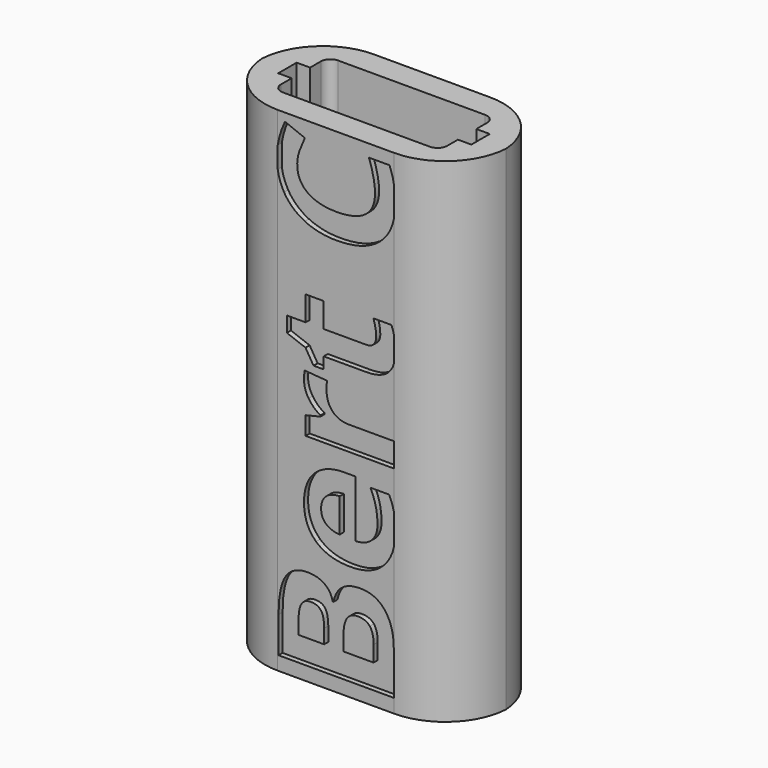
from build123d import *

# Parameters (mm, degrees)
F1_DEPTH = 36.6
F0_W     = 0.55
F0_H     = 0.4
F2_DEPTH = 2
F4_DEPTH = 0.4


with BuildPart() as f1:
    # F0 (on Top) → F1 (new body)
    with BuildSketch(Plane.XY):
        with BuildLine():
            Line((-11.4141522914, 14.7262677297), (-20.5141522914, 14.7262677297))
            ThreePointArc((-20.5141522914, 14.7262677297), (-23.9419795916, 13.3663226743), (-25.5051441768, 10.0262677297))
            ThreePointArc((-25.5051441768, 10.0262677297), (-23.9419795916, 6.6862127851), (-20.5141522914, 5.3262677297))
            Line((-20.5141522914, 5.3262677297), (-11.4141522914, 5.3262677297))
            ThreePointArc((-11.4141522914, 5.3262677297), (-7.9863249912, 6.6862127851), (-6.423160406, 10.0262677297))
            ThreePointArc((-6.423160406, 10.0262677297), (-7.9863249912, 13.3663226743), (-11.4141522914, 14.7262677297))
        make_face()
        with BuildLine():
            Line((-23.5141522914, 10.9262677297), (-22.4641522914, 10.9262677297))
            Line((-22.4641522914, 10.9262677297), (-22.4641522914, 11.9762677297))
            ThreePointArc((-22.4641522914, 11.9762677297), (-22.2444823773, 12.5065978156), (-21.7141522914, 12.7262677297))
            Line((-21.7141522914, 12.7262677297), (-10.2141522914, 12.7262677297))
            ThreePointArc((-10.2141522914, 12.7262677297), (-9.6838222055, 12.5065978156), (-9.4641522914, 11.9762677297))
            Line((-9.4641522914, 11.9762677297), (-9.4641522914, 10.9262677297))
            Line((-9.4641522914, 10.9262677297), (-8.4141522914, 10.9262677297))
            Line((-8.4141522914, 10.9262677297), (-8.4141522914, 10.0262677297))
            Line((-8.4141522914, 10.0262677297), (-8.4141522914, 9.1262677297))
            Line((-8.4141522914, 9.1262677297), (-9.4641522914, 9.1262677297))
            Line((-9.4641522914, 9.1262677297), (-9.4641522914, 8.0762677297))
            ThreePointArc((-9.4641522914, 8.0762677297), (-9.6838222055, 7.5459376438), (-10.2141522914, 7.3262677297))
            Line((-10.2141522914, 7.3262677297), (-21.7141522914, 7.3262677297))
            ThreePointArc((-21.7141522914, 7.3262677297), (-22.2444823773, 7.5459376438), (-22.4641522914, 8.0762677297))
            Line((-22.4641522914, 8.0762677297), (-22.4641522914, 9.1262677297))
            Line((-22.4641522914, 9.1262677297), (-23.5141522914, 9.1262677297))
            Line((-23.5141522914, 9.1262677297), (-23.5141522914, 10.0262677297))
            Line((-23.5141522914, 10.0262677297), (-23.5141522914, 10.9262677297))
        make_face(mode=Mode.SUBTRACT)
    extrude(amount=F1_DEPTH)

    # F0 (on Top) → F2 (join)
    with BuildSketch(Plane.XY):
        with BuildLine():
            Line((-11.4141522914, 14.7262677297), (-20.5141522914, 14.7262677297))
            ThreePointArc((-20.5141522914, 14.7262677297), (-23.9419795916, 13.3663226743), (-25.5051441768, 10.0262677297))
            ThreePointArc((-25.5051441768, 10.0262677297), (-23.9419795916, 6.6862127851), (-20.5141522914, 5.3262677297))
            Line((-20.5141522914, 5.3262677297), (-11.4141522914, 5.3262677297))
            ThreePointArc((-11.4141522914, 5.3262677297), (-7.9863249912, 6.6862127851), (-6.423160406, 10.0262677297))
            ThreePointArc((-6.423160406, 10.0262677297), (-7.9863249912, 13.3663226743), (-11.4141522914, 14.7262677297))
        make_face()
        with BuildLine():
            Line((-23.5141522914, 10.9262677297), (-22.4641522914, 10.9262677297))
            Line((-22.4641522914, 10.9262677297), (-22.4641522914, 11.9762677297))
            ThreePointArc((-22.4641522914, 11.9762677297), (-22.2444823773, 12.5065978156), (-21.7141522914, 12.7262677297))
            Line((-21.7141522914, 12.7262677297), (-10.2141522914, 12.7262677297))
            ThreePointArc((-10.2141522914, 12.7262677297), (-9.6838222055, 12.5065978156), (-9.4641522914, 11.9762677297))
            Line((-9.4641522914, 11.9762677297), (-9.4641522914, 10.9262677297))
            Line((-9.4641522914, 10.9262677297), (-8.4141522914, 10.9262677297))
            Line((-8.4141522914, 10.9262677297), (-8.4141522914, 10.0262677297))
            Line((-8.4141522914, 10.0262677297), (-8.4141522914, 9.1262677297))
            Line((-8.4141522914, 9.1262677297), (-9.4641522914, 9.1262677297))
            Line((-9.4641522914, 9.1262677297), (-9.4641522914, 8.0762677297))
            ThreePointArc((-9.4641522914, 8.0762677297), (-9.6838222055, 7.5459376438), (-10.2141522914, 7.3262677297))
            Line((-10.2141522914, 7.3262677297), (-21.7141522914, 7.3262677297))
            ThreePointArc((-21.7141522914, 7.3262677297), (-22.2444823773, 7.5459376438), (-22.4641522914, 8.0762677297))
            Line((-22.4641522914, 8.0762677297), (-22.4641522914, 9.1262677297))
            Line((-22.4641522914, 9.1262677297), (-23.5141522914, 9.1262677297))
            Line((-23.5141522914, 9.1262677297), (-23.5141522914, 10.0262677297))
            Line((-23.5141522914, 10.0262677297), (-23.5141522914, 10.9262677297))
        make_face(mode=Mode.SUBTRACT)
        Polygon((-23.0141522914, 10.4262677297), (-22.4641522914, 10.4262677297), (-22.4641522914, 10.9262677297), (-23.5141522914, 10.9262677297), (-23.5141522914, 10.0262677297), (-23.5141522914, 9.1262677297), (-22.4641522914, 9.1262677297), (-22.4641522914, 9.6262677297), (-23.0141522914, 9.6262677297), (-23.0141522914, 10.0262677297), align=None)
        Polygon((-9.4641522914, 10.9262677297), (-9.4641522914, 10.4262677297), (-8.9141522914, 10.4262677297), (-8.9141522914, 10.0262677297), (-8.9141522914, 9.6262677297), (-9.4641522914, 9.6262677297), (-9.4641522914, 9.1262677297), (-8.4141522914, 9.1262677297), (-8.4141522914, 10.0262677297), (-8.4141522914, 10.9262677297), align=None)
        with Locations((-9.1891522914, 10.2262677297)):
            Rectangle(F0_W, F0_H)
        with Locations((-9.1891522914, 9.8262677297)):
            Rectangle(F0_W, F0_H)
        with Locations((-22.7391522914, 9.8262677297)):
            Rectangle(F0_W, F0_H)
        with Locations((-22.7391522914, 10.2262677297)):
            Rectangle(F0_W, F0_H)
    extrude(amount=-F2_DEPTH)

    # F3 (on face) → F4 (cut)
    with BuildSketch(Plane.XZ.offset(-5.3262677297)):
        with BuildLine():
            add(Edge.make_bspline(
                [(-20.5141522914, 34.1754316406), (-20.3765211718, 35.0710144978), (-19.9456660149, 35.9729916487)],
                knots=[0.3194370949, 0.3194370949, 0.3194370949, 1, 1, 1], degree=2))
            Line((-20.5141522914, 34.1754316406), (-20.5141522914, 32.5014638676))
            add(Edge.make_bspline(
                [(-20.015680249, 31.0897453487), (-20.3880312966, 31.7235898641), (-20.5141522914, 32.5014638676)],
                knots=[0, 0, 0, 0.6612847054, 0.6612847054, 0.6612847054], degree=2))
            add(Edge.make_bspline(
                [(-18.3954917048, 29.6194464325), (-19.4526080282, 30.1312406226), (-20.015680249, 31.0897453487)],
                knots=[0, 0, 0, 1, 1, 1], degree=2))
            add(Edge.make_bspline(
                [(-15.9321740034, 29.1076522423), (-17.3383753814, 29.1076522423), (-18.3954917048, 29.6194464325)],
                knots=[0, 0, 0, 1, 1, 1], degree=2))
            add(Edge.make_bspline(
                [(-12.5083793439, 30.1489907101), (-13.7015796717, 29.1076522423), (-15.9321740034, 29.1076522423)],
                knots=[0, 0, 0, 1, 1, 1], degree=2))
            add(Edge.make_bspline(
                [(-11.4141522914, 32.1007460204), (-11.6588284661, 30.8904169308), (-12.5083793439, 30.1489907101)],
                knots=[0.2880064998, 0.2880064998, 0.2880064998, 1, 1, 1], degree=2))
            Line((-11.4141522914, 32.1007460204), (-11.4141522914, 34.3660595958))
            add(Edge.make_bspline(
                [(-11.7786535237, 35.6337677539), (-11.5293555555, 35.0375743151), (-11.4141522914, 34.3660595958)],
                knots=[0, 0, 0, 0.5378892779, 0.5378892779, 0.5378892779], degree=2))
            Line((-11.7786535237, 35.6337677539), (-13.3801058644, 35.6337677539))
            add(Edge.make_bspline(
                [(-12.9067701972, 33.336117536), (-12.9067701972, 34.2847611023), (-13.3801058644, 35.6337677539)],
                knots=[0, 0, 0, 1, 1, 1], degree=2))
            add(Edge.make_bspline(
                [(-15.9203406117, 31.0739674931), (-12.9067701972, 31.0739674931), (-12.9067701972, 33.336117536)],
                knots=[0, 0, 0, 1, 1, 1], degree=2))
            add(Edge.make_bspline(
                [(-18.1785461906, 31.6656370771), (-17.3679588606, 31.0739674931), (-15.9203406117, 31.0739674931)],
                knots=[0, 0, 0, 1, 1, 1], degree=2))
            add(Edge.make_bspline(
                [(-18.9891335207, 33.336117536), (-18.9891335207, 32.2573066611), (-18.1785461906, 31.6656370771)],
                knots=[0, 0, 0, 1, 1, 1], degree=2))
            add(Edge.make_bspline(
                [(-18.8106465296, 34.3399835968), (-18.9891335207, 33.8291755227), (-18.9891335207, 33.336117536)],
                knots=[0, 0, 0, 1, 1, 1], degree=2))
            add(Edge.make_bspline(
                [(-18.3915472409, 35.3576552813), (-18.6321595384, 34.850791671), (-18.8106465296, 34.3399835968)],
                knots=[0, 0, 0, 1, 1, 1], degree=2))
            Line((-18.3915472409, 35.3576552813), (-19.9456660149, 35.9729916487))
        make_face()
        with BuildLine():
            Line((-11.4141522914, 22.1291245865), (-11.4141522914, 24.0078518221))
            add(Edge.make_bspline(
                [(-11.6307361276, 24.6878804498), (-11.4919040027, 24.3789789717), (-11.4141522914, 24.0078518221)],
                knots=[0, 0, 0, 0.4399587902, 0.4399587902, 0.4399587902], degree=2))
            Line((-11.6307361276, 24.6878804498), (-13.0290485778, 24.6878804498))
            add(Edge.make_bspline(
                [(-12.8140752957, 23.5045412818), (-12.8140752957, 23.9975992684), (-13.0290485778, 24.6878804498)],
                knots=[0, 0, 0, 1, 1, 1], degree=2))
            add(Edge.make_bspline(
                [(-13.0053817945, 22.9089272339), (-12.8140752957, 23.1337616758), (-12.8140752957, 23.5045412818)],
                knots=[0, 0, 0, 1, 1, 1], degree=2))
            add(Edge.make_bspline(
                [(-13.5970513785, 22.6840927919), (-13.1966882933, 22.6840927919), (-13.0053817945, 22.9089272339)],
                knots=[0, 0, 0, 1, 1, 1], degree=2))
            Line((-13.5970513785, 22.6840927919), (-16.9182899767, 22.6840927919))
            Line((-16.9182899767, 22.6840927919), (-16.9182899767, 24.6129356358))
            Line((-16.9182899767, 24.6129356358), (-18.3304080505, 24.6129356358))
            Line((-18.3304080505, 24.6129356358), (-18.3304080505, 22.6840927919))
            Line((-18.3304080505, 22.6840927919), (-19.7977486189, 22.6840927919))
            Line((-19.7977486189, 22.6840927919), (-19.7977486189, 21.4830035364))
            Line((-19.7977486189, 21.4830035364), (-18.3422414422, 20.9406397511))
            Line((-18.3422414422, 20.9406397511), (-17.7130994512, 19.9052179791))
            Line((-17.7130994512, 19.9052179791), (-16.9182899767, 19.9052179791))
            Line((-16.9182899767, 19.9052179791), (-16.9182899767, 20.8045557467))
            Line((-16.9182899767, 20.8045557467), (-13.5970513785, 20.8045557467))
            add(Edge.make_bspline(
                [(-11.8861401647, 21.3193082848), (-12.4571013133, 20.8045557467), (-13.5970513785, 20.8045557467)],
                knots=[0, 0, 0, 1, 1, 1], degree=2))
            add(Edge.make_bspline(
                [(-11.4141522914, 22.1291245865), (-11.5528971158, 21.6197450232), (-11.8861401647, 21.3193082848)],
                knots=[0.4163472423, 0.4163472423, 0.4163472423, 1, 1, 1], degree=2))
        make_face()
        with BuildLine():
            add(Edge.make_bspline(
                [(-18.4586031271, 18.7159621152), (-18.4586031271, 19.0985751129), (-18.4033806326, 19.351020802)],
                knots=[0, 0, 0, 1, 1, 1], degree=2))
            add(Edge.make_bspline(
                [(-18.1045874926, 17.5296645993), (-18.4586031271, 18.0749867325), (-18.4586031271, 18.7159621152)],
                knots=[0, 0, 0, 1, 1, 1], degree=2))
            add(Edge.make_bspline(
                [(-17.1707356659, 16.6628686587), (-17.7505718582, 16.984342466), (-18.1045874926, 17.5296645993)],
                knots=[0, 0, 0, 1, 1, 1], degree=2))
            Line((-17.1707356659, 16.6628686587), (-17.1707356659, 16.5721459892))
            Line((-17.1707356659, 16.5721459892), (-18.3304080505, 16.2940612847))
            Line((-18.3304080505, 16.2940612847), (-18.3304080505, 14.8701098192))
            Line((-18.3304080505, 14.8701098192), (-11.4394296288, 14.8701098192))
            Line((-11.4394296288, 14.8701098192), (-11.4394296288, 16.7496468644))
            Line((-11.4394296288, 16.7496468644), (-14.94605803, 16.7496468644))
            add(Edge.make_bspline(
                [(-16.240828303, 17.2525660108), (-15.7783399115, 16.7496468644), (-14.94605803, 16.7496468644)],
                knots=[0, 0, 0, 1, 1, 1], degree=2))
            add(Edge.make_bspline(
                [(-16.7033166945, 18.6548229249), (-16.7033166945, 17.7554851572), (-16.240828303, 17.2525660108)],
                knots=[0, 0, 0, 1, 1, 1], degree=2))
            add(Edge.make_bspline(
                [(-16.6421775042, 19.2090201019), (-16.7033166945, 18.9802411961), (-16.7033166945, 18.6548229249)],
                knots=[0, 0, 0, 1, 1, 1], degree=2))
            Line((-16.6421775042, 19.2090201019), (-18.4033806326, 19.351020802))
        make_face()
        with BuildLine():
            add(Edge.make_bspline(
                [(-11.4141522914, 9.5181631608), (-11.6167787293, 8.5611834051), (-12.2342391033, 7.9317978307)],
                knots=[0.328161039, 0.328161039, 0.328161039, 1, 1, 1], degree=2))
            Line((-11.4141522914, 9.5181631608), (-11.4141522914, 11.7936169729))
            add(Edge.make_bspline(
                [(-11.4354851649, 11.8999285075), (-11.4242986458, 11.8478470087), (-11.4141522914, 11.7936169729)],
                knots=[0, 0, 0, 0.0929837687, 0.0929837687, 0.0929837687], degree=2))
            add(Edge.make_bspline(
                [(-11.802320307, 12.953100367), (-11.5557913137, 12.4600423803), (-11.4354851649, 11.8999285075)],
                knots=[0, 0, 0, 1, 1, 1], degree=2))
            Line((-11.802320307, 12.953100367), (-13.2578274837, 12.953100367))
            add(Edge.make_bspline(
                [(-12.8446448908, 11.7954002143), (-12.9738260833, 12.3495973913), (-13.2578274837, 12.953100367)],
                knots=[0, 0, 0, 1, 1, 1], degree=2))
            add(Edge.make_bspline(
                [(-12.7154636983, 10.6179777421), (-12.7154636983, 11.2412030373), (-12.8446448908, 11.7954002143)],
                knots=[0, 0, 0, 1, 1, 1], degree=2))
            add(Edge.make_bspline(
                [(-13.1651325822, 9.3734993838), (-12.7154636983, 9.8172515718), (-12.7154636983, 10.6179777421)],
                knots=[0, 0, 0, 1, 1, 1], degree=2))
            add(Edge.make_bspline(
                [(-14.4155276364, 8.8981914846), (-13.614801466, 8.9297471958), (-13.1651325822, 9.3734993838)],
                knots=[0, 0, 0, 1, 1, 1], degree=2))
            Line((-14.4155276364, 8.8981914846), (-14.4155276364, 13.3416300605))
            Line((-14.4155276364, 13.3416300605), (-15.3286710277, 13.3416300605))
            add(Edge.make_bspline(
                [(-17.6273073615, 12.5280843825), (-16.796011596, 13.3416300605), (-15.3286710277, 13.3416300605)],
                knots=[0, 0, 0, 1, 1, 1], degree=2))
            add(Edge.make_bspline(
                [(-18.4586031271, 10.2550870639), (-18.4586031271, 11.7145387045), (-17.6273073615, 12.5280843825)],
                knots=[0, 0, 0, 1, 1, 1], degree=2))
            add(Edge.make_bspline(
                [(-17.5129179086, 7.8607974807), (-18.4586031271, 8.7266073052), (-18.4586031271, 10.2550870639)],
                knots=[0, 0, 0, 1, 1, 1], degree=2))
            add(Edge.make_bspline(
                [(-14.835613041, 6.9949876561), (-16.5672326902, 6.9949876561), (-17.5129179086, 7.8607974807)],
                knots=[0, 0, 0, 1, 1, 1], degree=2))
            add(Edge.make_bspline(
                [(-12.2342391033, 7.9317978307), (-13.1532991905, 6.9949876561), (-14.835613041, 6.9949876561)],
                knots=[0, 0, 0, 1, 1, 1], degree=2))
        make_face()
        with BuildLine():
            add(Edge.make_bspline(
                [(-17.1214298672, 10.2669204556), (-17.1214298672, 9.6693341758), (-16.7427613335, 9.3301102809)],
                knots=[0, 0, 0, 1, 1, 1], degree=2))
            add(Edge.make_bspline(
                [(-16.7427613335, 11.215564022), (-17.1214298672, 10.8645067355), (-17.1214298672, 10.2669204556)],
                knots=[0, 0, 0, 1, 1, 1], degree=2))
            add(Edge.make_bspline(
                [(-15.6678949225, 11.5804269321), (-16.3640927997, 11.5666213085), (-16.7427613335, 11.215564022)],
                knots=[0, 0, 0, 1, 1, 1], degree=2))
            Line((-15.6678949225, 11.5804269321), (-15.6678949225, 8.9415805874))
            add(Edge.make_bspline(
                [(-16.7427613335, 9.3301102809), (-16.3640927997, 8.9908863861), (-15.6678949225, 8.9415805874)],
                knots=[0, 0, 0, 1, 1, 1], degree=2))
        make_face(mode=Mode.SUBTRACT)
        with BuildLine():
            Line((-20.4505573932, 1.8849346822), (-20.4505573932, -0.919579146))
            Line((-20.4505573932, -0.919579146), (-11.4394296288, -0.919579146))
            Line((-11.4394296288, -0.919579146), (-11.4394296288, 2.4509652509))
            add(Edge.make_bspline(
                [(-12.1297108102, 4.8708938495), (-11.4394296288, 3.9794450096), (-11.4394296288, 2.4509652509)],
                knots=[0, 0, 0, 1, 1, 1], degree=2))
            add(Edge.make_bspline(
                [(-14.0526369582, 5.7623426894), (-12.8199919915, 5.7623426894), (-12.1297108102, 4.8708938495)],
                knots=[0, 0, 0, 1, 1, 1], degree=2))
            add(Edge.make_bspline(
                [(-15.4460188285, 5.3826880396), (-14.9223912467, 5.7623426894), (-14.0526369582, 5.7623426894)],
                knots=[0, 0, 0, 1, 1, 1], degree=2))
            add(Edge.make_bspline(
                [(-16.1609529092, 4.147084725), (-15.9696464104, 5.0030333899), (-15.4460188285, 5.3826880396)],
                knots=[0, 0, 0, 1, 1, 1], degree=2))
            Line((-16.1609529092, 4.147084725), (-16.2220920995, 4.147084725))
            add(Edge.make_bspline(
                [(-16.8443312787, 5.1548952498), (-16.3266203927, 4.776226716), (-16.2220920995, 4.147084725)],
                knots=[0, 0, 0, 1, 1, 1], degree=2))
            add(Edge.make_bspline(
                [(-18.1706572629, 5.5335637836), (-17.3620421647, 5.5335637836), (-16.8443312787, 5.1548952498)],
                knots=[0, 0, 0, 1, 1, 1], degree=2))
            add(Edge.make_bspline(
                [(-19.90523526, 4.667753959), (-19.3599131267, 5.5335637836), (-18.1706572629, 5.5335637836)],
                knots=[0, 0, 0, 1, 1, 1], degree=2))
            add(Edge.make_bspline(
                [(-20.4505573932, 1.8849346822), (-20.4505573932, 3.8019441344), (-19.90523526, 4.667753959)],
                knots=[0, 0, 0, 1, 1, 1], degree=2))
        make_face()
        with BuildLine():
            Line((-16.8808175697, 2.0999079644), (-16.8808175697, 0.9915136104))
            Line((-16.8808175697, 0.9915136104), (-18.8846052276, 0.9915136104))
            Line((-18.8846052276, 0.9915136104), (-18.8846052276, 1.9953796712))
            add(Edge.make_bspline(
                [(-18.6597707856, 3.1944966948), (-18.8846052276, 2.815828161), (-18.8846052276, 1.9953796712)],
                knots=[0, 0, 0, 1, 1, 1], degree=2))
            add(Edge.make_bspline(
                [(-17.9162393417, 3.5731652286), (-18.4349363437, 3.5731652286), (-18.6597707856, 3.1944966948)],
                knots=[0, 0, 0, 1, 1, 1], degree=2))
            add(Edge.make_bspline(
                [(-17.1214298672, 3.22506629), (-17.3620421647, 3.5731652286), (-17.9162393417, 3.5731652286)],
                knots=[0, 0, 0, 1, 1, 1], degree=2))
            add(Edge.make_bspline(
                [(-16.8808175697, 2.0999079644), (-16.8808175697, 2.8769673514), (-17.1214298672, 3.22506629)],
                knots=[0, 0, 0, 1, 1, 1], degree=2))
        make_face(mode=Mode.SUBTRACT)
        with BuildLine():
            Line((-13.0172151862, 0.9915136104), (-15.3661434347, 0.9915136104))
            Line((-15.3661434347, 0.9915136104), (-15.3661434347, 2.1748527784))
            add(Edge.make_bspline(
                [(-14.243943457, 3.7763051191), (-15.3661434347, 3.7763051191), (-15.3661434347, 2.1748527784)],
                knots=[0, 0, 0, 1, 1, 1], degree=2))
            add(Edge.make_bspline(
                [(-13.318966674, 3.4005949332), (-13.6207181619, 3.7763051191), (-14.243943457, 3.7763051191)],
                knots=[0, 0, 0, 1, 1, 1], degree=2))
            add(Edge.make_bspline(
                [(-13.0172151862, 2.2359919687), (-13.0172151862, 3.0248847474), (-13.318966674, 3.4005949332)],
                knots=[0, 0, 0, 1, 1, 1], degree=2))
            Line((-13.0172151862, 2.2359919687), (-13.0172151862, 0.9915136104))
        make_face(mode=Mode.SUBTRACT)
    extrude(amount=-F4_DEPTH, mode=Mode.SUBTRACT)


solid = f1.part
